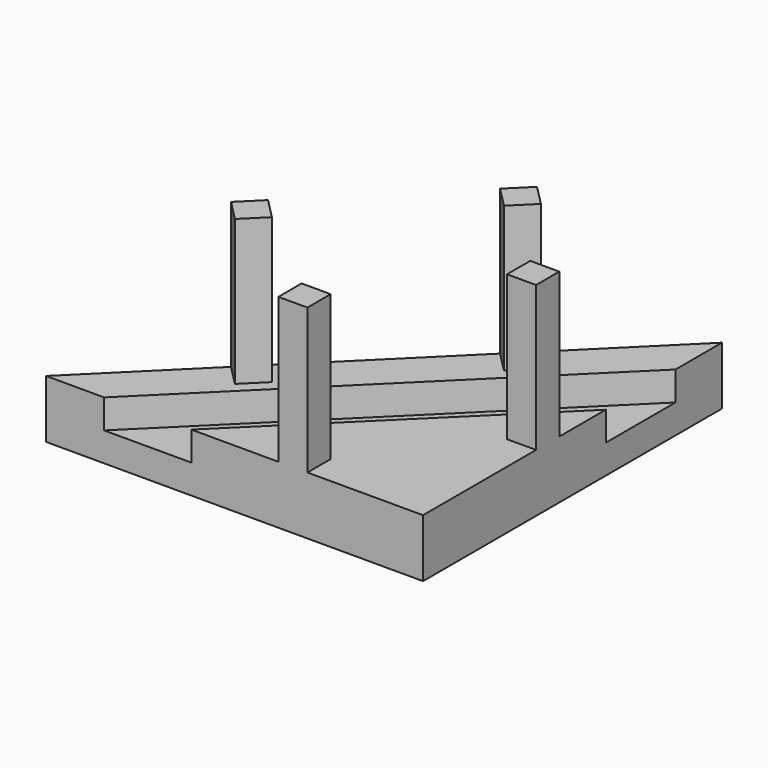
from build123d import *

# Parameters (mm, degrees)
F1_DEPTH = 25.4
F2_W     = 12.7
F2_H     = 12.7
F3_DEPTH = 63.5
F4_DEPTH = 76.2
F6_DEPTH = 12.7


with BuildPart() as f1:
    # F0 (on Top) → F1 (new body)
    with BuildSketch(Plane.XY):
        Polygon((-82.4187099934, -81.6961601377), (82.4187099934, -81.6961601377), (82.4187099934, 81.6961601377), align=None)
    extrude(amount=F1_DEPTH)

    # F2 (on face) → F3 (join)
    with BuildSketch(Plane.XY.offset(25.4)):
        Polygon((37.3201792488, 36.9930000181), (28.3004730998, 28.0523679941), (37.2411051238, 19.0326618452), (46.2608112727, 27.9732938691), align=None)
        Polygon((82.4187099934, 56.2961601377), (-57.0187099934, -81.6961601377), (-31.6187099934, -81.6961601377), (-18.9187099934, -81.6961601377), (82.4187099934, 18.1961601377), (82.4187099934, 30.8961601377), (82.4187099934, 43.5961601377), align=None)
        with Locations((76.0687099934, -13.5538398623)):
            Rectangle(F2_W, F2_H)
        with Locations((25.5312900066, -75.3461601377)):
            Rectangle(F2_W, F2_H)
        Polygon((82.4187099934, 56.2961601377), (-57.0187099934, -81.6961601377), (-31.6187099934, -81.6961601377), (-18.9187099934, -81.6961601377), (82.4187099934, 18.1961601377), (82.4187099934, 30.8961601377), (82.4187099934, 43.5961601377), align=None)
        Polygon((-28.293198853, -28.0451575193), (-37.3201792488, -36.9930000181), (-28.3795472248, -46.012706167), (-19.3526364396, -37.0793483618), align=None)
    extrude(amount=F3_DEPTH)

    # F4 (cut): a face of the model
    f4_faces = [f1.faces().sort_by_distance(p)[0] for p in [
        (21.8407092905, -21.5998593386, 88.9),
    ]]
    extrude(f4_faces, amount=-F4_DEPTH, mode=Mode.SUBTRACT)

    # F5 (on face) → F6 (join)
    with BuildSketch(Plane.XY.offset(25.4)):
        Polygon((82.4187099934, 18.1961601377), (-18.9187099934, -81.6961601377), (-8.7587099934, -81.6961601377), (82.4187099934, 8.1810445552), align=None)
    extrude(amount=-F6_DEPTH)


solid = f1.part
